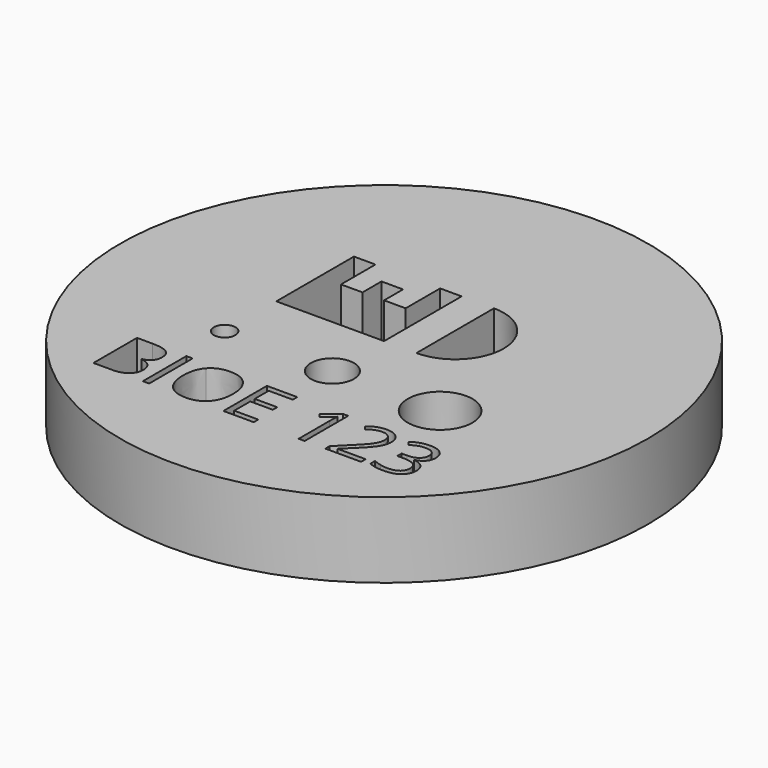
from build123d import *

# Parameters (mm, degrees)
F0_R     = 24.5
F0_W     = 0.5866539
F0_H     = 5.0478750829
F0_R_2   = 1
F0_R_3   = 2
F0_R_4   = 3
F1_DEPTH = 7


with BuildPart() as f1:
    # F0 (on Top) → F1 (new body)
    with BuildSketch(Plane.XY):
        Circle(F0_R)
        with BuildLine():
            Line((-14.3061795684, -15.8348518479), (-14.3061795684, -10.786976765))
            Line((-14.3061795684, -10.786976765), (-12.879870369, -10.786976765))
            add(Edge.make_bspline(
                [(-12.879870369, -10.786976765), (-11.8755984385, -10.786976765), (-11.4264933343, -11.0874849775)],
                knots=[0, 0, 0, 1, 1, 1], degree=2))
            add(Edge.make_bspline(
                [(-11.4264933343, -11.0874849775), (-10.9773882301, -11.3879931899), (-10.9773882301, -12.0365164277)],
                knots=[0, 0, 0, 1, 1, 1], degree=2))
            add(Edge.make_bspline(
                [(-10.9773882301, -12.0365164277), (-10.9773882301, -12.4861739367), (-11.2276276055, -12.7778436723)],
                knots=[0, 0, 0, 1, 1, 1], degree=2))
            add(Edge.make_bspline(
                [(-11.2276276055, -12.7778436723), (-11.4778669809, -13.0695134079), (-11.9584591589, -13.155688557)],
                knots=[0, 0, 0, 1, 1, 1], degree=2))
            Line((-11.9584591589, -13.155688557), (-11.9584591589, -13.1899376548))
            add(Edge.make_bspline(
                [(-11.9584591589, -13.1899376548), (-10.8083523606, -13.3865937644), (-10.8083523606, -14.3985993621)],
                knots=[0, 0, 0, 1, 1, 1], degree=2))
            add(Edge.make_bspline(
                [(-10.8083523606, -14.3985993621), (-10.8083523606, -15.07474284), (-11.2657435369, -15.454797344)],
                knots=[0, 0, 0, 1, 1, 1], degree=2))
            add(Edge.make_bspline(
                [(-11.2657435369, -15.454797344), (-11.7231347131, -15.8348518479), (-12.5451130588, -15.8348518479)],
                knots=[0, 0, 0, 1, 1, 1], degree=2))
            Line((-12.5451130588, -15.8348518479), (-14.3061795684, -15.8348518479))
        make_face(mode=Mode.SUBTRACT)
        with Locations((-9.4312071886, -13.3109143065)):
            Rectangle(F0_W, F0_H, mode=Mode.SUBTRACT)
        with BuildLine():
            add(Edge.make_bspline(
                [(-3.9828386241, -11.3979364763), (-3.3718789129, -12.0884424791), (-3.3718789129, -13.303733044)],
                knots=[0, 0, 0, 1, 1, 1], degree=2))
            add(Edge.make_bspline(
                [(-3.3718789129, -13.303733044), (-3.3718789129, -14.5157091802), (-3.9850482434, -15.2100820166)],
                knots=[0, 0, 0, 1, 1, 1], degree=2))
            add(Edge.make_bspline(
                [(-3.9850482434, -15.2100820166), (-4.5982175738, -15.904454853), (-5.6886646535, -15.904454853)],
                knots=[0, 0, 0, 1, 1, 1], degree=2))
            add(Edge.make_bspline(
                [(-5.6886646535, -15.904454853), (-6.8034175444, -15.904454853), (-7.4094056124, -15.2222349222)],
                knots=[0, 0, 0, 1, 1, 1], degree=2))
            add(Edge.make_bspline(
                [(-7.4094056124, -15.2222349222), (-8.0153936805, -14.5400149915), (-8.0153936805, -13.2971041864)],
                knots=[0, 0, 0, 1, 1, 1], degree=2))
            add(Edge.make_bspline(
                [(-8.0153936805, -13.2971041864), (-8.0153936805, -12.0641366678), (-7.407748398, -11.3857835707)],
                knots=[0, 0, 0, 1, 1, 1], degree=2))
            add(Edge.make_bspline(
                [(-7.407748398, -11.3857835707), (-6.8001031156, -10.7074304735), (-5.6820357958, -10.7074304735)],
                knots=[0, 0, 0, 1, 1, 1], degree=2))
            add(Edge.make_bspline(
                [(-5.6820357958, -10.7074304735), (-4.5937983354, -10.7074304735), (-3.9828386241, -11.3979364763)],
                knots=[0, 0, 0, 1, 1, 1], degree=2))
        make_face(mode=Mode.SUBTRACT)
        Polygon((0.5667673271, -15.3100672858), (0.5667673271, -15.8348518479), (-2.2471827355, -15.8348518479), (-2.2471827355, -10.786976765), (0.5667673271, -10.786976765), (0.5667673271, -11.3084468984), (-1.6605288355, -11.3084468984), (-1.6605288355, -12.9347266362), (0.4319805554, -12.9347266362), (0.4319805554, -13.4528823407), (-1.6605288355, -13.4528823407), (-1.6605288355, -15.3100672858), align=None, mode=Mode.SUBTRACT)
        with Locations((-10, -6)):
            Circle(F0_R_2, mode=Mode.SUBTRACT)
        with Locations((0, -6)):
            Circle(F0_R_3, mode=Mode.SUBTRACT)
        with BuildLine():
            Line((5.2964572439, -10.786976765), (5.2964572439, -15.8348518479))
            Line((5.2964572439, -15.8348518479), (4.737423584, -15.8348518479))
            Line((4.737423584, -15.8348518479), (4.737423584, -12.2375917757))
            add(Edge.make_bspline(
                [(4.737423584, -12.2375917757), (4.737423584, -11.7879342667), (4.7650438241, -11.3879931899)],
                knots=[0, 0, 0, 1, 1, 1], degree=2))
            add(Edge.make_bspline(
                [(4.7650438241, -11.3879931899), (4.6932311998, -11.4609106238), (4.6031892171, -11.5399045105)],
                knots=[0, 0, 0, 1, 1, 1], degree=2))
            add(Edge.make_bspline(
                [(4.6031892171, -11.5399045105), (4.5131472343, -11.6188983972), (3.7817632761, -12.2132859644)],
                knots=[0, 0, 0, 1, 1, 1], degree=2))
            Line((3.7817632761, -12.2132859644), (3.4779406349, -11.8199737452))
            Line((3.4779406349, -11.8199737452), (4.8136554467, -10.786976765))
            Line((4.8136554467, -10.786976765), (5.2964572439, -10.786976765))
        make_face(mode=Mode.SUBTRACT)
        with BuildLine():
            Line((10.5343595787, -15.3034384282), (10.5343595787, -15.8348518479))
            Line((10.5343595787, -15.8348518479), (7.2166163365, -15.8348518479))
            Line((7.2166163365, -15.8348518479), (7.2166163365, -15.3410019547))
            Line((7.2166163365, -15.3410019547), (8.5457022906, -14.0052871429))
            add(Edge.make_bspline(
                [(8.5457022906, -14.0052871429), (9.1533475731, -13.3899081932), (9.3466892539, -13.1275159121)],
                knots=[0, 0, 0, 1, 1, 1], degree=2))
            add(Edge.make_bspline(
                [(9.3466892539, -13.1275159121), (9.5400309347, -12.8651236311), (9.6367017751, -12.6165414701)],
                knots=[0, 0, 0, 1, 1, 1], degree=2))
            add(Edge.make_bspline(
                [(9.6367017751, -12.6165414701), (9.7333726155, -12.3679593091), (9.7333726155, -12.0818136215)],
                knots=[0, 0, 0, 1, 1, 1], degree=2))
            add(Edge.make_bspline(
                [(9.7333726155, -12.0818136215), (9.7333726155, -11.6774533063), (9.4881048833, -11.4410240509)],
                knots=[0, 0, 0, 1, 1, 1], degree=2))
            add(Edge.make_bspline(
                [(9.4881048833, -11.4410240509), (9.2428371511, -11.2045947955), (8.8075421669, -11.2045947955)],
                knots=[0, 0, 0, 1, 1, 1], degree=2))
            add(Edge.make_bspline(
                [(8.8075421669, -11.2045947955), (8.4937762392, -11.2045947955), (8.2120497901, -11.3084468984)],
                knots=[0, 0, 0, 1, 1, 1], degree=2))
            add(Edge.make_bspline(
                [(8.2120497901, -11.3084468984), (7.9303233409, -11.4122990012), (7.5856227443, -11.6851869735)],
                knots=[0, 0, 0, 1, 1, 1], degree=2))
            Line((7.5856227443, -11.6851869735), (7.2818001031, -11.2951891831))
            add(Edge.make_bspline(
                [(7.2818001031, -11.2951891831), (7.9789349635, -10.7151641408), (8.8009133093, -10.7151641408)],
                knots=[0, 0, 0, 1, 1, 1], degree=2))
            add(Edge.make_bspline(
                [(8.8009133093, -10.7151641408), (9.5124106946, -10.7151641408), (9.916218605, -11.0791989054)],
                knots=[0, 0, 0, 1, 1, 1], degree=2))
            add(Edge.make_bspline(
                [(9.916218605, -11.0791989054), (10.3200265154, -11.4432336701), (10.3200265154, -12.0575078102)],
                knots=[0, 0, 0, 1, 1, 1], degree=2))
            add(Edge.make_bspline(
                [(10.3200265154, -12.0575078102), (10.3200265154, -12.5380999881), (10.0504529719, -13.00764407)],
                knots=[0, 0, 0, 1, 1, 1], degree=2))
            add(Edge.make_bspline(
                [(10.0504529719, -13.00764407), (9.7808794284, -13.477188152), (9.0428666127, -14.1953143949)],
                knots=[0, 0, 0, 1, 1, 1], degree=2))
            Line((9.0428666127, -14.1953143949), (7.9380570082, -15.275818188))
            Line((7.9380570082, -15.275818188), (7.9380570082, -15.3034384282))
            Line((7.9380570082, -15.3034384282), (10.5343595787, -15.3034384282))
        make_face(mode=Mode.SUBTRACT)
        with BuildLine():
            add(Edge.make_bspline(
                [(13.9791559255, -11.0515786653), (14.3868306695, -11.3879931899), (14.3868306695, -11.9746470899)],
                knots=[0, 0, 0, 1, 1, 1], degree=2))
            add(Edge.make_bspline(
                [(14.3868306695, -11.9746470899), (14.3868306695, -12.4585536966), (14.1155999116, -12.7656907667)],
                knots=[0, 0, 0, 1, 1, 1], degree=2))
            add(Edge.make_bspline(
                [(14.1155999116, -12.7656907667), (13.8443691537, -13.0728278367), (13.3472048317, -13.1766799395)],
                knots=[0, 0, 0, 1, 1, 1], degree=2))
            Line((13.3472048317, -13.1766799395), (13.3472048317, -13.2043001796))
            add(Edge.make_bspline(
                [(13.3472048317, -13.2043001796), (13.9548501142, -13.2794272327), (14.2481770642, -13.5904311364)],
                knots=[0, 0, 0, 1, 1, 1], degree=2))
            add(Edge.make_bspline(
                [(14.2481770642, -13.5904311364), (14.5415040141, -13.9014350401), (14.5415040141, -14.4052282197)],
                knots=[0, 0, 0, 1, 1, 1], degree=2))
            add(Edge.make_bspline(
                [(14.5415040141, -14.4052282197), (14.5415040141, -15.1266688914), (14.0410252633, -15.5155618722)],
                knots=[0, 0, 0, 1, 1, 1], degree=2))
            add(Edge.make_bspline(
                [(14.0410252633, -15.5155618722), (13.5405465125, -15.904454853), (12.6191353023, -15.904454853)],
                knots=[0, 0, 0, 1, 1, 1], degree=2))
            add(Edge.make_bspline(
                [(12.6191353023, -15.904454853), (12.2180894159, -15.904454853), (11.8849893202, -15.8436903247)],
                knots=[0, 0, 0, 1, 1, 1], degree=2))
            add(Edge.make_bspline(
                [(11.8849893202, -15.8436903247), (11.5518892244, -15.7829257965), (11.2381232968, -15.6315668807)],
                knots=[0, 0, 0, 1, 1, 1], degree=2))
            Line((11.2381232968, -15.6315668807), (11.2381232968, -15.0857909361))
            add(Edge.make_bspline(
                [(11.2381232968, -15.0857909361), (11.5662517493, -15.2481979479), (11.9374677764, -15.3327158827)],
                knots=[0, 0, 0, 1, 1, 1], degree=2))
            add(Edge.make_bspline(
                [(11.9374677764, -15.3327158827), (12.3086838035, -15.4172338174), (12.6401266848, -15.4172338174)],
                knots=[0, 0, 0, 1, 1, 1], degree=2))
            add(Edge.make_bspline(
                [(12.6401266848, -15.4172338174), (13.9482212565, -15.4172338174), (13.9482212565, -14.3919705045)],
                knots=[0, 0, 0, 1, 1, 1], degree=2))
            add(Edge.make_bspline(
                [(13.9482212565, -14.3919705045), (13.9482212565, -13.4727689135), (12.5053399131, -13.4727689135)],
                knots=[0, 0, 0, 1, 1, 1], degree=2))
            Line((12.5053399131, -13.4727689135), (12.0081755911, -13.4727689135))
            Line((12.0081755911, -13.4727689135), (12.0081755911, -12.9800238299))
            Line((12.0081755911, -12.9800238299), (12.5119687707, -12.9800238299))
            add(Edge.make_bspline(
                [(12.5119687707, -12.9800238299), (13.1019370995, -12.9800238299), (13.4471901009, -12.7192887633)],
                knots=[0, 0, 0, 1, 1, 1], degree=2))
            add(Edge.make_bspline(
                [(13.4471901009, -12.7192887633), (13.7924431023, -12.4585536966), (13.7924431023, -11.9956384723)],
                knots=[0, 0, 0, 1, 1, 1], degree=2))
            add(Edge.make_bspline(
                [(13.7924431023, -11.9956384723), (13.7924431023, -11.6266320645), (13.5388892981, -11.41561343)],
                knots=[0, 0, 0, 1, 1, 1], degree=2))
            add(Edge.make_bspline(
                [(13.5388892981, -11.41561343), (13.2853354938, -11.2045947955), (12.8500405097, -11.2045947955)],
                knots=[0, 0, 0, 1, 1, 1], degree=2))
            add(Edge.make_bspline(
                [(12.8500405097, -11.2045947955), (12.5185976283, -11.2045947955), (12.2252706784, -11.2946367783)],
                knots=[0, 0, 0, 1, 1, 1], degree=2))
            add(Edge.make_bspline(
                [(12.2252706784, -11.2946367783), (11.9319437284, -11.3846787611), (11.5552036532, -11.6266320645)],
                knots=[0, 0, 0, 1, 1, 1], degree=2))
            Line((11.5552036532, -11.6266320645), (11.2657435369, -11.2399487029))
            add(Edge.make_bspline(
                [(11.2657435369, -11.2399487029), (11.5761950357, -10.9946809707), (11.9816601606, -10.8549225557)],
                knots=[0, 0, 0, 1, 1, 1], degree=2))
            add(Edge.make_bspline(
                [(11.9816601606, -10.8549225557), (12.3871252854, -10.7151641408), (12.8367827944, -10.7151641408)],
                knots=[0, 0, 0, 1, 1, 1], degree=2))
            add(Edge.make_bspline(
                [(12.8367827944, -10.7151641408), (13.5714811814, -10.7151641408), (13.9791559255, -11.0515786653)],
                knots=[0, 0, 0, 1, 1, 1], degree=2))
        make_face(mode=Mode.SUBTRACT)
        with Locations((10, -6)):
            Circle(F0_R_4, mode=Mode.SUBTRACT)
        Polygon((0, 9), (0, 0), (-10, 0), (-10, 9), (-8, 9), (-8, 5), (-6, 5), (-6, 7.2), (-4, 7.2), (-4, 5), (-2, 5), (-2, 9), align=None, mode=Mode.SUBTRACT)
        with BuildLine():
            Line((3, 0), (3, 9))
            ThreePointArc((3, 9), (7.5, 4.5), (3, 0))
        make_face(mode=Mode.SUBTRACT)
    extrude(amount=F1_DEPTH)


solid = f1.part
